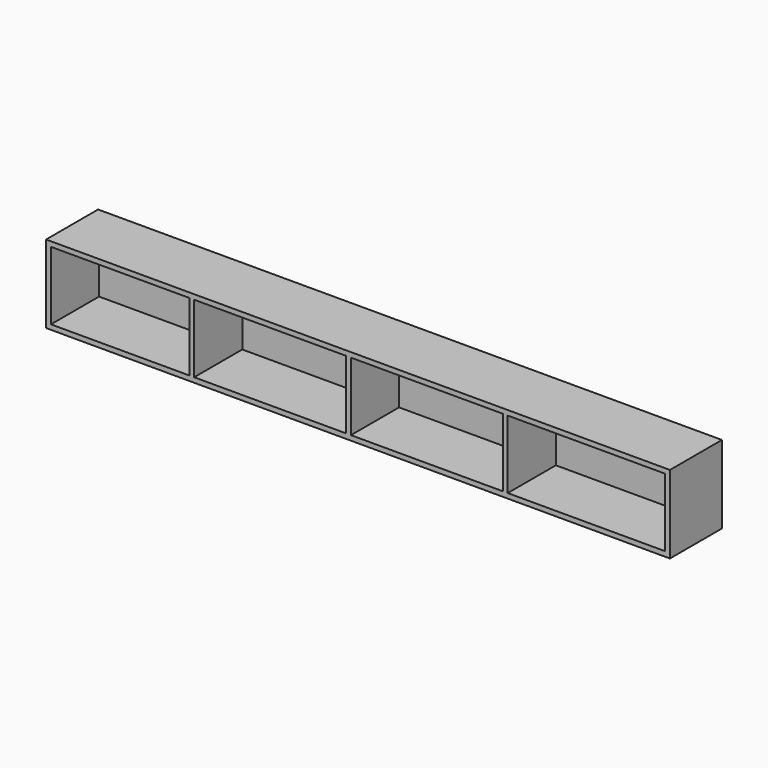
from build123d import *

# Parameters (mm, degrees)
F0_W     = 2438.4
F0_H     = 304.8
F0_W_2   = 2400.3
F0_H_2   = 266.7
F1_DEPTH = 254
F2_W     = 2438.4
F2_H     = 304.8
F3_DEPTH = 19.05
F4_W     = 19.05
F4_H     = 266.7
F5_DEPTH = 234.95


with BuildPart() as f1:
    # F0 (on Front) → F1 (new body)
    with BuildSketch(Plane.XZ):
        with Locations((1219.2, -152.4)):
            Rectangle(F0_W, F0_H)
        with Locations((1219.2, -152.4)):
            Rectangle(F0_W_2, F0_H_2, mode=Mode.SUBTRACT)
    extrude(amount=F1_DEPTH)

    # F2 (on Front) → F3 (join)
    with BuildSketch(Plane.XZ):
        with Locations((1219.2, -152.4)):
            Rectangle(F2_W, F2_H)
    extrude(amount=F3_DEPTH)

    # F4 (on face) → F5 (join)
    with BuildSketch(Plane.XZ.offset(19.05)):
        with Locations((1182.107865, -152.4)):
            Rectangle(F4_W, F4_H)
        with Locations((1794.882865, -152.4)):
            Rectangle(F4_W, F4_H)
        with Locations((569.332865, -152.4)):
            Rectangle(F4_W, F4_H)
    extrude(amount=F5_DEPTH)


solid = f1.part
